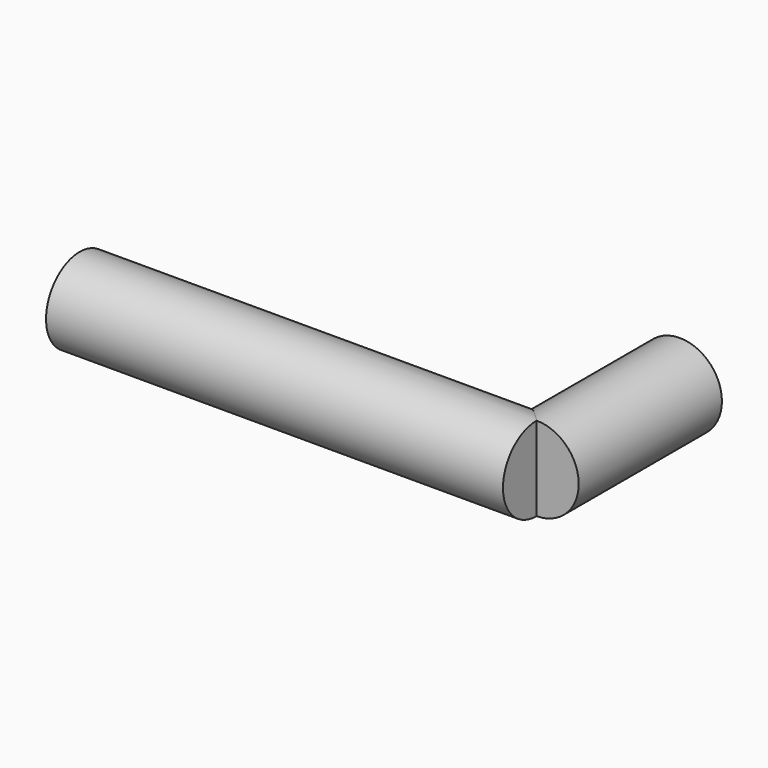
from build123d import *

# Parameters (mm, degrees)
F1_R     = 203.2
F2_DEPTH = 865
F3_R     = 203.2
F4_DEPTH = 2208


with BuildPart() as f2:
    # F1 (on Front) → F2 (new body)
    with BuildSketch(Plane.XZ):
        Circle(F1_R)
    extrude(amount=F2_DEPTH)

    # F3 (on Right) → F4 (join)
    with BuildSketch(Plane.YZ):
        with Locations((-865, 0)):
            Circle(F3_R)
    extrude(amount=-F4_DEPTH)


solid = f2.part
